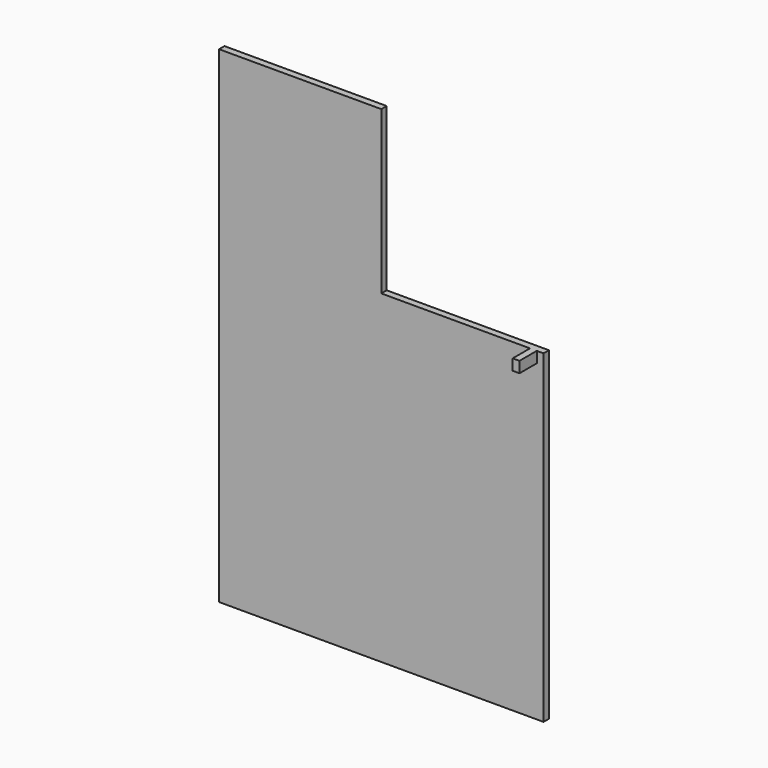
from build123d import *

# Parameters (mm, degrees)
F0_W     = 152.4
F0_H     = 228.6
F1_DEPTH = 1.5875
F2_W     = 76.2
F2_H     = 76.2
F3_DEPTH = 3.176
F4_W     = 3.175
F4_H     = 5.1537374914
F5_DEPTH = 10.16


with BuildPart() as f1:
    # F0 (on Front) → F1 (new body, symmetric)
    with BuildSketch(Plane.XZ):
        Rectangle(F0_W, F0_H)
    extrude(amount=F1_DEPTH, both=True)

    # F2 (on face) → F3 (cut, through all)
    with BuildSketch(Plane.XZ.offset(1.5875)):
        with Locations((38.1, 76.2)):
            Rectangle(F2_W, F2_H)
    extrude(amount=-F3_DEPTH, mode=Mode.SUBTRACT)

    # F4 (on face) → F5 (join)
    with BuildSketch(Plane.XZ.offset(1.5875)):
        with Locations((71.4375, 35.5231312543)):
            Rectangle(F4_W, F4_H)
    extrude(amount=F5_DEPTH)


solid = f1.part
